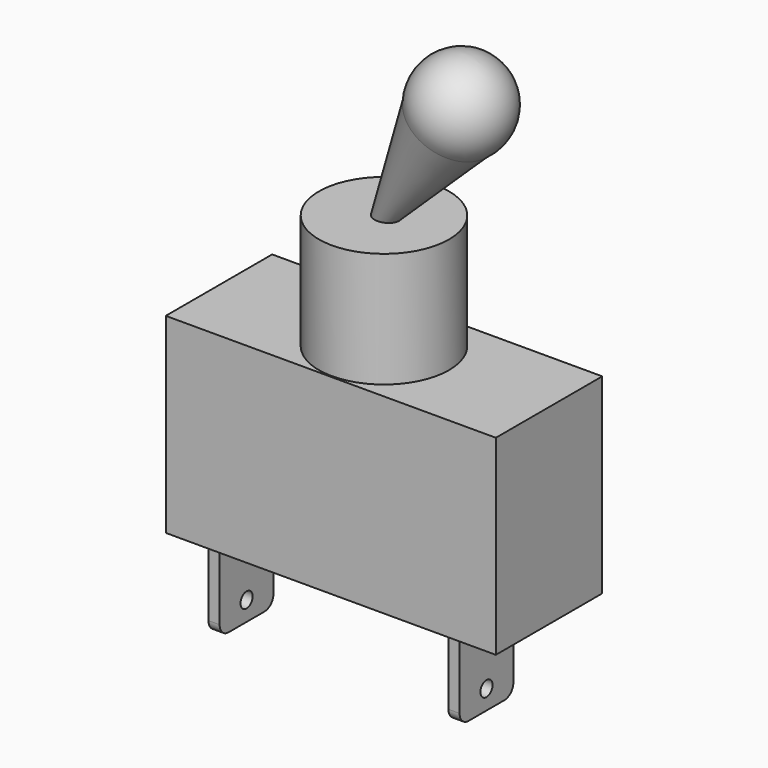
from build123d import *

# Parameters (mm, degrees)
F0_W      = 29.4386
F0_H      = 17.0434
F1_DEPTH  = 5.9309
F2_R      = 5.8039
F3_DEPTH  = 10.2616
F6_W      = 1
F6_H      = 6
F7_DEPTH  = 8.6
F8_R      = 1
F8_2_R    = 1
F9_R      = 0.6770222616
F10_DEPTH = 500


with BuildPart() as f1:
    # F0 (on Front) → F1 (new body, symmetric)
    with BuildSketch(Plane.XZ):
        Rectangle(F0_W, F0_H)
    extrude(amount=F1_DEPTH, both=True)


with BuildPart() as f3:
    # F2 (on face) → F3 (new body)
    with BuildSketch(Plane.XY.offset(8.5217)):
        Circle(F2_R)
    extrude(amount=F3_DEPTH)

    # F4 (on Front) → F5 (revolve)
    with BuildSketch(Plane.XZ):
        with BuildLine():
            Line((-0.9526929156, 18.7513008714), (0, 18.7513008714))
            Line((0, 18.7513008714), (9.0653166076, 33.1838168809))
            ThreePointArc((9.0653166076, 33.1838168809), (5.141054484, 33.4195512623), (2.8277341607, 30.2408796852))
            Line((2.8277341607, 30.2408796852), (-0.9526929156, 18.7513008714))
        make_face()
    revolve(axis=Axis((4.5326583038, 0, 25.9675588761), (0.5318960188, 0, 0.8468096747)))


with BuildPart() as f7:
    # F6 (on face) → F7 (new body)
    with BuildSketch(Plane(origin=(0, 0, -8.5217), x_dir=(1, 0, 0), z_dir=(0, 0, -1))):
        with Locations((8.6395833641, 0)):
            Rectangle(F6_W, F6_H)
    extrude(amount=F7_DEPTH)

    # F8
    f8_edges = [f7.edges().sort_by_distance(p)[0] for p in [
        (8.639583, 3, -17.1217),
        (8.639583, -3, -17.1217),
    ]]
    fillet(f8_edges, radius=F8_R)


with BuildPart() as f7b:
    # F6 (on face) → F7, piece 2 (new body)
    with BuildSketch(Plane(origin=(0, 0, -8.5217), x_dir=(1, 0, 0), z_dir=(0, 0, -1))):
        with Locations((-12.7559127286, 0)):
            Rectangle(F6_W, F6_H)
    extrude(amount=F7_DEPTH)

    # F8#2
    f8_2_edges = [f7b.edges().sort_by_distance(p)[0] for p in [
        (-12.755913, -3, -17.1217),
        (-12.755913, 3, -17.1217),
    ]]
    fillet(f8_2_edges, radius=F8_2_R)


with BuildPart() as f10_tool:
    # F9 (on face) → F10 (new body)
    with BuildSketch(Plane(origin=(-13.2559127286, 0, 0), x_dir=(0, -1, 0), z_dir=(-1, 0, 0))):
        with Locations((0, -15.3914736584)):
            Circle(F9_R)
    extrude(amount=-F10_DEPTH)


with BuildPart() as f7_1:
    add(f7.part)

    # F10: cut by f10_tool
    add(f10_tool.part, mode=Mode.SUBTRACT)


with BuildPart() as f7b_1:
    add(f7b.part)

    # F10: cut by f10_tool
    add(f10_tool.part, mode=Mode.SUBTRACT)


solid = Compound([f1.part, f3.part, f7_1.part, f7b_1.part])
